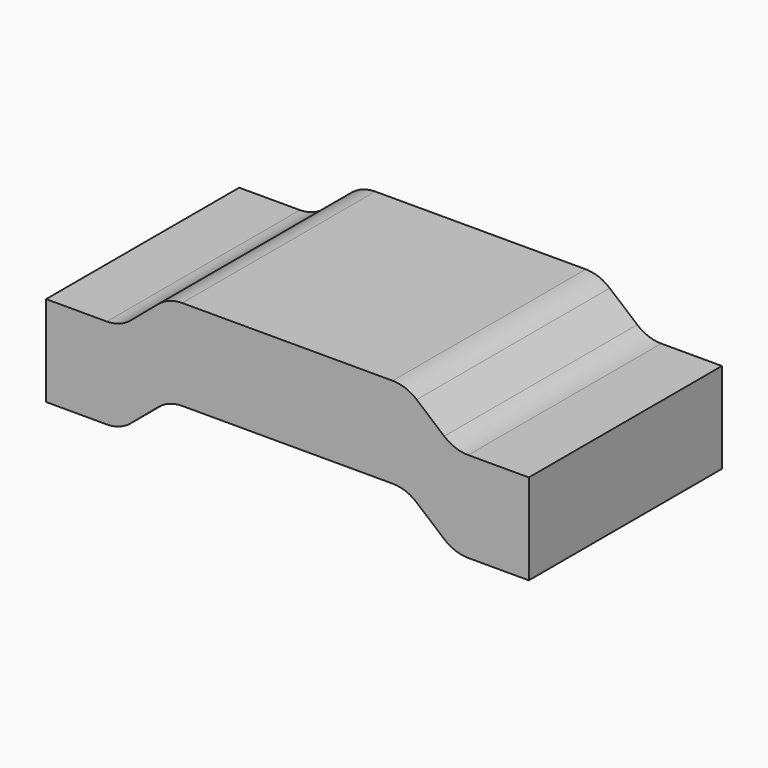
from build123d import *

# Parameters (mm, degrees)
F1_DEPTH = 3.25
F2_R     = 0.5


with BuildPart() as f1:
    # F0 (on Front) → F1 (new body)
    with BuildSketch(Plane.XZ):
        Polygon((0, 1.22), (0, 0), (1, 0), (1.65, 0.55), (3.25, 0.55), (3.25, 1.77), (1.65, 1.77), (1, 1.22), align=None)
    extrude(amount=F1_DEPTH)

    # F2
    f2_edges = [f1.edges().sort_by_distance(p)[0] for p in [
        (1, -1.625, 0),
        (1.65, -1.625, 0.55),
        (1, -1.625, 1.22),
        (1.65, -1.625, 1.77),
    ]]
    fillet(f2_edges, radius=F2_R)

    # F3: F1 across face


with BuildPart() as f1_1:
    add(f1.part)
    add(f1.part.mirror(Plane(origin=(3.25, -1.625, 1.16), x_dir=(0, 1, 0), z_dir=(1, 0, 0))))


solid = f1_1.part
